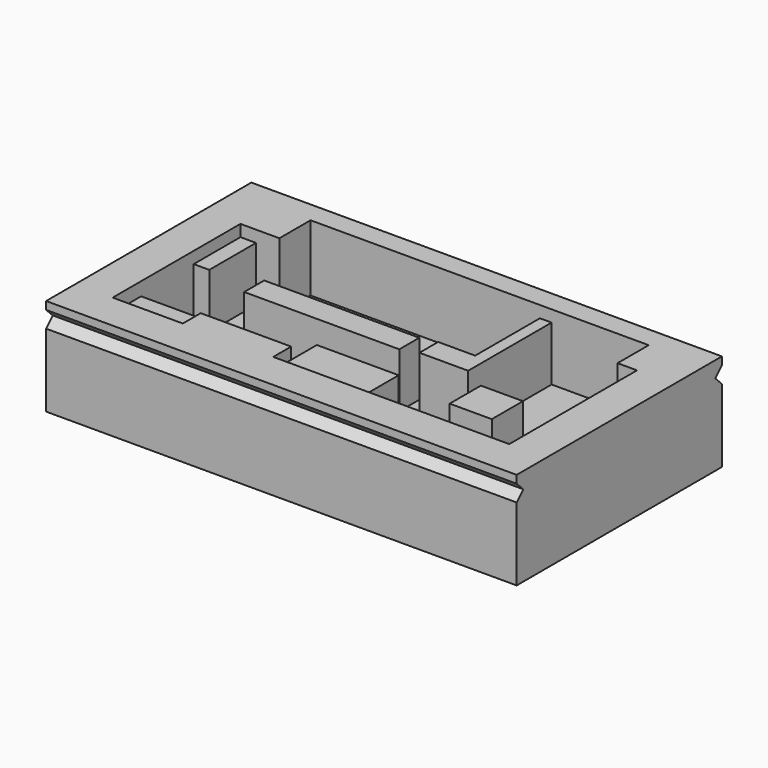
from build123d import *

# Parameters (mm, degrees)
SKETCH_W            = 120.815
SKETCH_H            = 65.873
PAD_DEPTH           = 25
POCKET_DEPTH        = 17
SKETCH002_R         = 0.8
HOLE_DEPTH          = 8.001
SKETCH003_W         = 10.80455
SKETCH003_H         = 10.011545
SKETCH003_W_2       = 3
SKETCH003_H_2       = 20
SKETCH003_W_3       = 21
SKETCH003_H_3       = 14
SKETCH003_W_4       = 17.5
SKETCH003_H_4       = 8
SKETCH003_W_5       = 4
SKETCH003_H_5       = 15
SKETCH003_W_6       = 39.832252
SKETCH003_H_6       = 6.416744
PAD001_DEPTH        = 14
HOLE001_D           = 3.5
HOLE001_DEPTH       = 20
HOLE001_CBORE_D     = 4.2
HOLE001_CBORE_DEPTH = 5
POCKET001_DEPTH     = 120.816


with BuildPart() as part:
    # Sketch → Pad (new body)
    with BuildSketch(Plane.XY):
        with Locations((50.4075, 22.9365)):
            Rectangle(SKETCH_W, SKETCH_H)
    extrude(amount=-PAD_DEPTH)

    # Sketch001 (on Face5 of Pad) → Pocket (cut)
    with BuildSketch(Plane.XY):
        Polygon((-0.5, 40.5), (-0.5, -0.5), (17.5, -0.5), (17.5, 5.25), (40.721178, 5.25), (40.721178, -0.5), (101.315, -0.5), (101.315, 40.5), (96.315, 40.5), (96.315, 50.5), (9.5, 50.5), (9.5, 40.5), align=None)
    extrude(amount=-POCKET_DEPTH, mode=Mode.SUBTRACT)

    # Sketch002 (on Face19 of Pocket) → Hole (cut, through all)
    with BuildSketch(Plane.XY.offset(-17)):
        with Locations((60.8, 35.99)):
            Circle(SKETCH002_R)
        with Locations((63.34, 35.99)):
            Circle(SKETCH002_R)
        with Locations((65.88, 35.99)):
            Circle(SKETCH002_R)
        with Locations((65.88, 33.45)):
            Circle(SKETCH002_R)
        with Locations((63.34, 33.45)):
            Circle(SKETCH002_R)
        with Locations((60.8, 33.45)):
            Circle(SKETCH002_R)
    extrude(amount=-HOLE_DEPTH, mode=Mode.SUBTRACT)

    # Sketch003 (on Face25 of Hole) → Pad001 (join)
    with BuildSketch(Plane.XY.offset(-17)):
        with Locations((82.816269, 15.264502)):
            Rectangle(SKETCH003_W, SKETCH003_H)
        with Locations((99.815, 30.5)):
            Rectangle(SKETCH003_W_2, SKETCH003_H_2)
        with Locations((51.221178, 6.5)):
            Rectangle(SKETCH003_W_3, SKETCH003_H_3)
        with Locations((8.75, 4)):
            Rectangle(SKETCH003_W_4, SKETCH003_H_4)
        with Locations((1.5, 33)):
            Rectangle(SKETCH003_W_5, SKETCH003_H_5)
        Polygon((58.883009, 23.721054), (58.883009, 29.721054), (68.383009, 29.721054), (68.383009, 50.5), (71.383009, 50.5), (71.383009, 23.721054), align=None)
        with Locations((34.88002, 25.574335)):
            Rectangle(SKETCH003_W_6, SKETCH003_H_6)
    extrude(amount=PAD001_DEPTH)

    # Hole001
    with Locations(Plane(origin=(0, 0, -25), x_dir=(1, 0, 0), z_dir=(0, 0, -1))):
        with Locations((-5.25, 5.25), (106.065, 5.25), (-5.25, -51.123), (106.065, -51.123)):
            CounterBoreHole(HOLE001_D / 2, HOLE001_CBORE_D / 2, HOLE001_CBORE_DEPTH, depth=HOLE001_DEPTH)

    # Sketch005 (on Face2 of Hole001) → Pocket001 (cut, through all)
    with BuildSketch(Plane(origin=(-10, 0, 0), x_dir=(0, -1, 0), z_dir=(-1, 0, 0))):
        Polygon((-55.873, -2), (-53.75168, -4.12132), (-55.873, -6.242641), align=None)
        Polygon((10, -2), (7.87868, -4.12132), (10, -6.242641), align=None)
    extrude(amount=-POCKET001_DEPTH, mode=Mode.SUBTRACT)


solid = part.part
